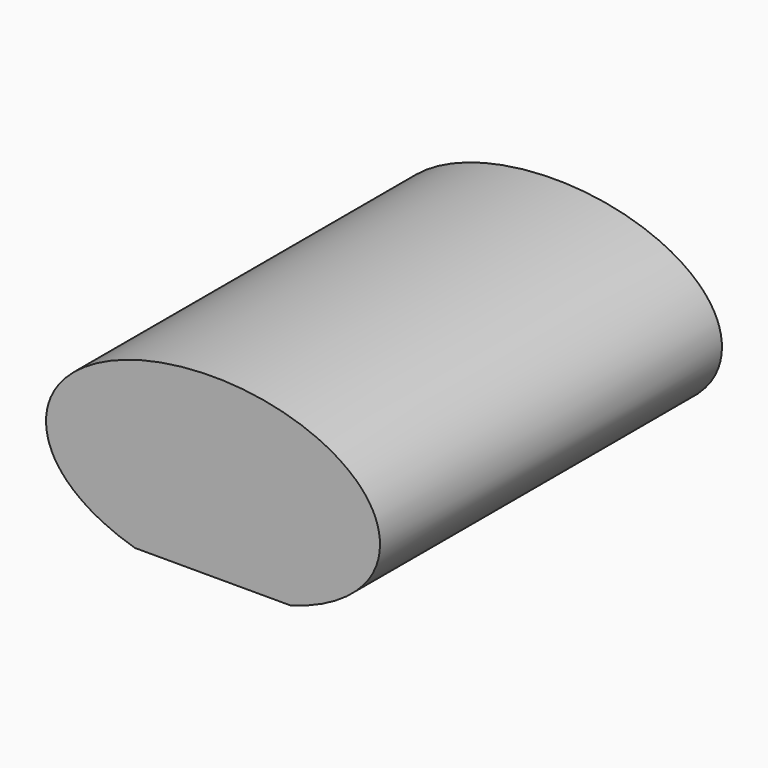
from build123d import *

# Parameters (mm, degrees)
F1_DEPTH = 160


with BuildPart() as f1:
    # F0 (on Front) → F1 (new body)
    with BuildSketch(Plane.XZ):
        with BuildLine():
            add(Edge.make_bspline(
                [(0, 35), (0, 55.267025), (29.034097, 70), (62.5, 70)],
                knots=[0, 0, 0, 0, 71.632744, 71.632744, 71.632744, 71.632744], degree=3))
            add(Edge.make_bspline(
                [(0, 35), (0, 21.037442), (13.780289, 9.701478), (33.296339, 4)],
                knots=[0, 0, 0, 0, 49.349935, 49.349935, 49.349935, 49.349935], degree=3))
            Line((33.296339, 4), (62.5, 4))
            Line((62.5, 4), (91.703661, 4))
            add(Edge.make_bspline(
                [(125, 35), (125, 21.037442), (111.219711, 9.701478), (91.703661, 4)],
                knots=[0, 0, 0, 0, 49.349935, 49.349935, 49.349935, 49.349935], degree=3))
            add(Edge.make_bspline(
                [(125, 35), (125, 55.267025), (95.965903, 70), (62.5, 70)],
                knots=[0, 0, 0, 0, 71.632744, 71.632744, 71.632744, 71.632744], degree=3))
        make_face()
    extrude(amount=-F1_DEPTH)


solid = f1.part
